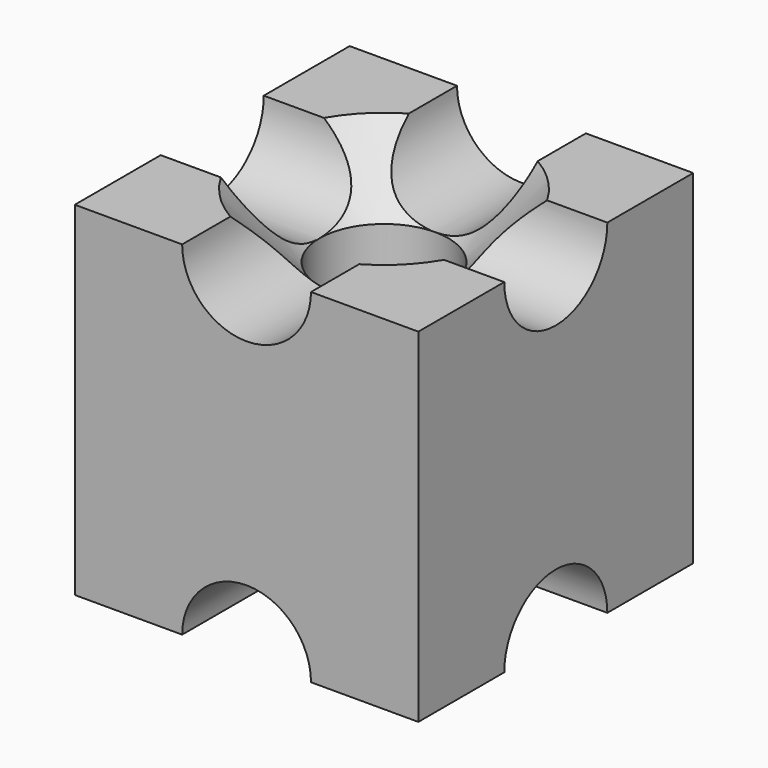
from build123d import *

# Parameters (mm, degrees)
F0_W           = 48
F0_H           = 48
F1_DEPTH       = 24
F2_R           = 9
F3_DEPTH       = 48
F6_D           = 18
F6_CSINK_D     = 36
F6_CSINK_ANGLE = 90
F4_R           = 9
F7_DEPTH       = 48


with BuildPart() as f1:
    # F0 (on Front) → F1 (new body, symmetric)
    with BuildSketch(Plane.XZ):
        Rectangle(F0_W, F0_H)
    extrude(amount=F1_DEPTH, both=True)

    # F2 (on face) → F3 (cut)
    with BuildSketch(Plane.XZ.offset(24)):
        with Locations((0, 24)):
            Circle(F2_R)
        with Locations((0, -24)):
            Circle(F2_R)
    extrude(amount=-F3_DEPTH, mode=Mode.SUBTRACT)

    # F6 (through all)
    with Locations(Plane.XY.offset(24)):
        with Locations((0, 0)):
            CounterSinkHole(F6_D / 2, F6_CSINK_D / 2, counter_sink_angle=F6_CSINK_ANGLE)

    # F4 (on face) → F7 (cut)
    with BuildSketch(Plane.YZ.offset(24)):
        with Locations((0, 24)):
            Circle(F4_R)
        with Locations((0, -24)):
            Circle(F4_R)
    extrude(amount=-F7_DEPTH, mode=Mode.SUBTRACT)


solid = f1.part
